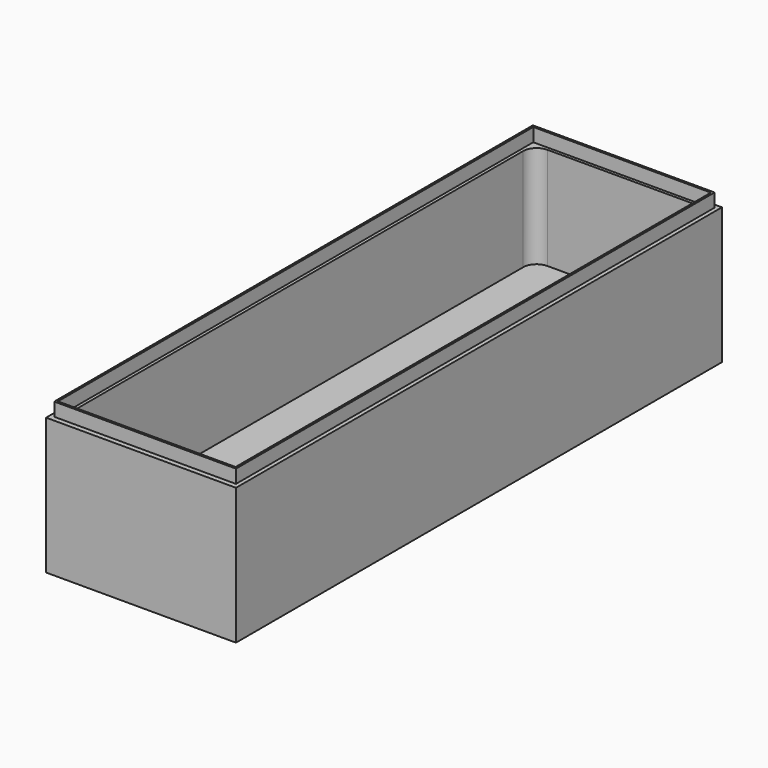
from build123d import *

# Parameters (mm, degrees)
F0_W     = 70.739
F0_H     = 226.2886
F1_DEPTH = 50.8
F2_W     = 63.8302
F2_H     = 219.4306
F3_DEPTH = 38.1
F4_W     = 57.5818
F4_H     = 180.0606
F5_DEPTH = 10.16
F6_R     = 5
F7_W     = 67.691
F7_H     = 222.8596
F7_W_2   = 66.167
F7_H_2   = 221.3356
F8_DEPTH = 5


with BuildPart() as f1:
    # F0 (on Top) → F1 (new body)
    with BuildSketch(Plane.XY):
        with Locations((-8.073856, 34.662454)):
            Rectangle(F0_W, F0_H)
    extrude(amount=F1_DEPTH)

    # F2 (on face) → F3 (cut)
    with BuildSketch(Plane.XY.offset(50.8)):
        with Locations((-8.073856, 34.662454)):
            Rectangle(F2_W, F2_H)
    extrude(amount=-F3_DEPTH, mode=Mode.SUBTRACT)

    # F4 (on face) → F5 (cut)
    with BuildSketch(Plane(origin=(0, 0, 0), x_dir=(1, 0, 0), z_dir=(0, 0, -1))):
        with Locations((-8.073856, -57.776454)):
            Rectangle(F4_W, F4_H)
    extrude(amount=-F5_DEPTH, mode=Mode.SUBTRACT)

    # F6
    f6_edges = [f1.edges().sort_by_distance(p)[0] for p in [
        (-36.864756, 57.776454, 10.16),
        (20.717044, 57.776454, 10.16),
        (-8.073856, -32.253846, 10.16),
        (-36.864756, -32.253846, 5.08),
        (20.717044, -32.253846, 5.08),
        (-39.988956, -75.052846, 31.75),
        (-39.988956, 144.377754, 31.75),
        (23.841244, 144.377754, 31.75),
        (23.841244, -75.052846, 31.75),
    ]]
    fillet(f6_edges, radius=F6_R)

    # F7 (on face) → F8 (join)
    with BuildSketch(Plane.XY.offset(50.8)):
        with Locations((-8.073856, 34.852954)):
            Rectangle(F7_W, F7_H)
        with Locations((-8.073856, 34.852954)):
            Rectangle(F7_W_2, F7_H_2, mode=Mode.SUBTRACT)
    extrude(amount=F8_DEPTH)


solid = f1.part
